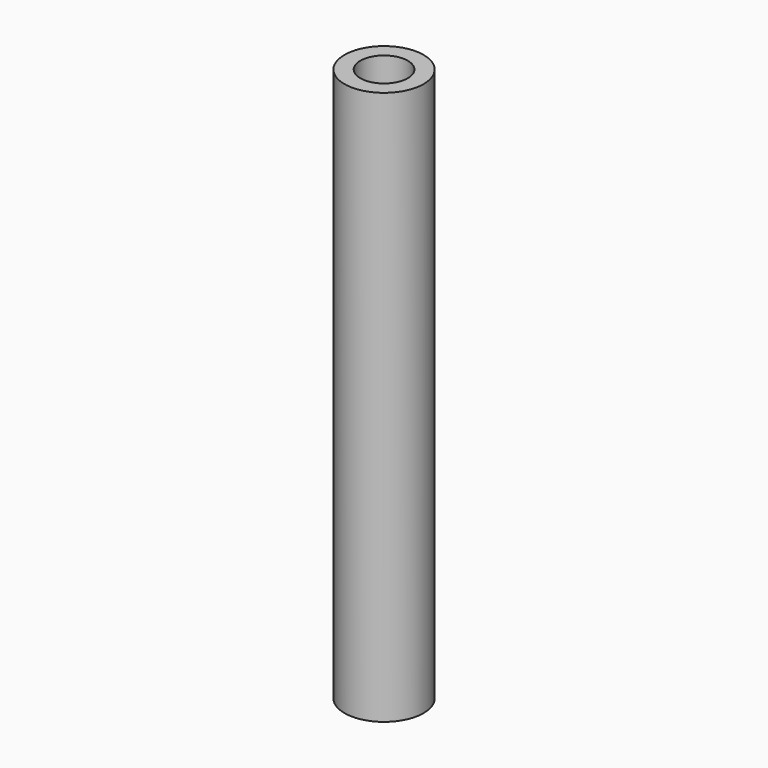
from build123d import *

# Parameters (mm, degrees)
SKETCH_R   = 2.5
SKETCH_R_2 = 1.5
PAD_DEPTH  = 35


with BuildPart() as part:
    # Sketch → Pad (new body)
    with BuildSketch(Plane.XY):
        Circle(SKETCH_R)
        Circle(SKETCH_R_2, mode=Mode.SUBTRACT)
    extrude(amount=PAD_DEPTH)


solid = part.part
